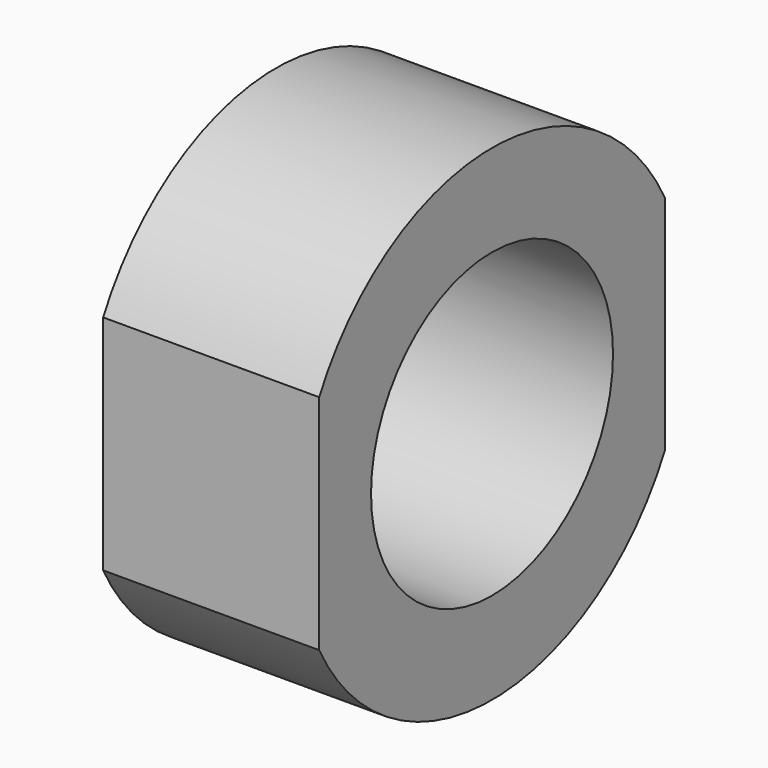
from build123d import *

# Parameters (mm, degrees)
F0_R     = 14
F1_DEPTH = 20


with BuildPart() as f1:
    # F0 (on Right) → F1 (new body)
    with BuildSketch(Plane.YZ):
        with BuildLine():
            Line((-20, 10.307764), (-20, -10.307764))
            ThreePointArc((-20, -10.307764), (0, -22.5), (20, -10.307764))
            Line((20, -10.307764), (20, 10.307764))
            ThreePointArc((20, 10.307764), (0, 22.5), (-20, 10.307764))
        make_face()
        Circle(F0_R, mode=Mode.SUBTRACT)
    extrude(amount=F1_DEPTH)


solid = f1.part
